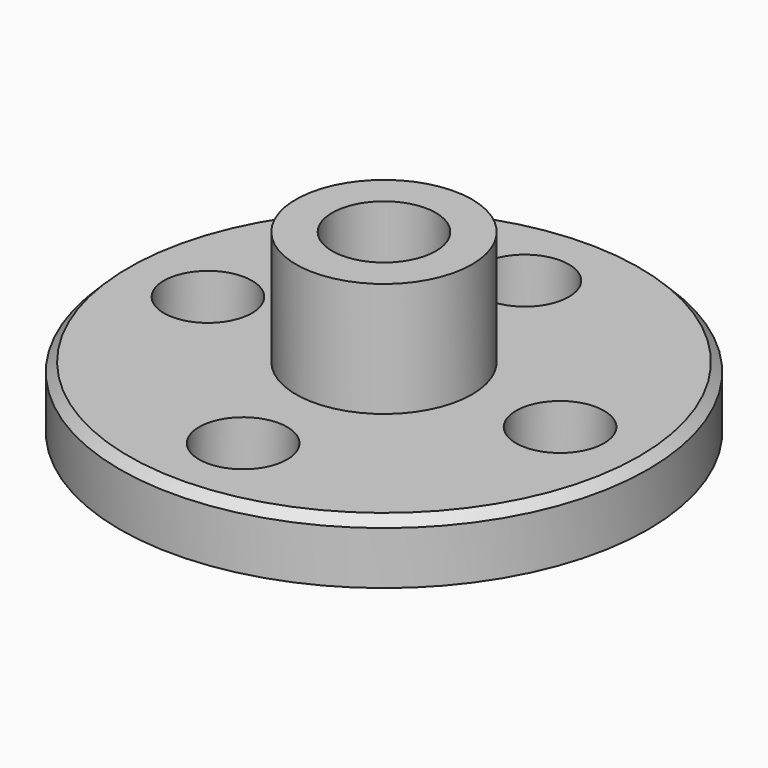
from build123d import *

# Parameters (mm, degrees)
F0_R     = 38.1
F0_R_2   = 6.35
F0_R_3   = 12.7
F1_DEPTH = 8.89
F2_SIZE  = 1.27
F3_DEPTH = 25.4
F4_R     = 7.47533
F5_DEPTH = 173.482


with BuildPart() as f1:
    # F0 (on Top) → F1 (new body)
    with BuildSketch(Plane.XY):
        Circle(F0_R)
        with Locations((0, -25.4)):
            Circle(F0_R_2, mode=Mode.SUBTRACT)
        with Locations((-25.4, 0)):
            Circle(F0_R_2, mode=Mode.SUBTRACT)
        Circle(F0_R_3, mode=Mode.SUBTRACT)
        with Locations((25.4, 0)):
            Circle(F0_R_2, mode=Mode.SUBTRACT)
        with Locations((0, 25.4)):
            Circle(F0_R_2, mode=Mode.SUBTRACT)
    extrude(amount=F1_DEPTH)

    # F2
    f2_edges = [f1.edges().sort_by_distance(p)[0] for p in [
        (-38.1, 0, 8.89),
    ]]
    chamfer(f2_edges, length=F2_SIZE)

    # F0 (on Top) → F3 (join)
    with BuildSketch(Plane.XY):
        Circle(F0_R_3)
    extrude(amount=F3_DEPTH)

    # F4 (on Top) → F5 (cut)
    with BuildSketch(Plane.XY):
        Circle(F4_R)
    extrude(amount=F5_DEPTH, mode=Mode.SUBTRACT)


solid = f1.part
